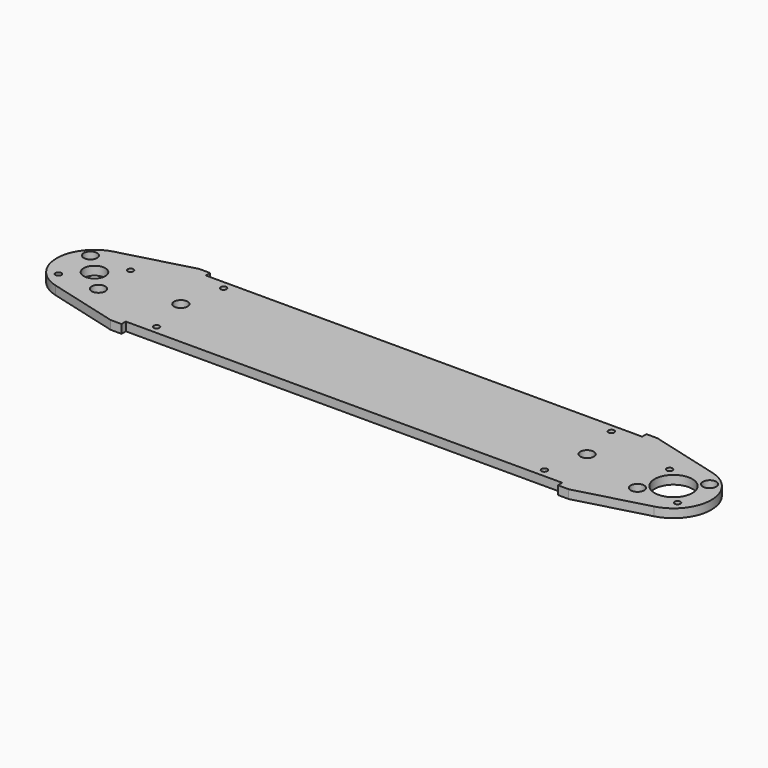
from build123d import *

# Parameters (mm, degrees)
F0_R     = 1.7272
F0_R_2   = 3.96875
F0_R_3   = 6.35
F0_R_4   = 11.1125
F1_DEPTH = 5.08


with BuildPart() as f1:
    # F0 (on Top) → F1 (new body)
    with BuildSketch(Plane.XY):
        with BuildLine():
            Line((-304.941003, 32.54375), (-346.277379, 21.467701))
            ThreePointArc((-346.277379, 21.467701), (-362.750125, 0), (-346.277379, -21.467701))
            Line((-346.277379, -21.467701), (-304.941003, -32.54375))
            Line((-304.941003, -32.54375), (-298.591003, -32.54375))
            Line((-298.591003, -32.54375), (-298.591003, -29.36875))
            Line((-298.591003, -29.36875), (-41.934123, -29.36875))
            Line((-41.934123, -29.36875), (-41.934123, -32.54375))
            Line((-41.934123, -32.54375), (-35.584123, -32.54375))
            Line((-35.584123, -32.54375), (5.752253, -21.467701))
            ThreePointArc((5.752253, -21.467701), (22.225, 0), (5.752253, 21.467701))
            Line((5.752253, 21.467701), (-35.584123, 32.54375))
            Line((-35.584123, 32.54375), (-41.934123, 32.54375))
            Line((-41.934123, 32.54375), (-41.934123, 29.36875))
            Line((-41.934123, 29.36875), (-298.591003, 29.36875))
            Line((-298.591003, 29.36875), (-298.591003, 32.54375))
            Line((-298.591003, 32.54375), (-304.941003, 32.54375))
        make_face()
        with Locations((-284.303503, -24.60625)):
            Circle(F0_R, mode=Mode.SUBTRACT)
        with Locations((-352.311712, -11.786586)):
            Circle(F0_R, mode=Mode.SUBTRACT)
        with Locations((-328.738539, -11.786586)):
            Circle(F0_R_2, mode=Mode.SUBTRACT)
        with Locations((-56.221623, -24.60625)):
            Circle(F0_R, mode=Mode.SUBTRACT)
        with Locations((-11.786586, -11.786586)):
            Circle(F0_R_2, mode=Mode.SUBTRACT)
        with Locations((11.786586, -11.786586)):
            Circle(F0_R, mode=Mode.SUBTRACT)
        with Locations((-340.525125, 0)):
            Circle(F0_R_3, mode=Mode.SUBTRACT)
        with Locations((-289.725125, 0)):
            Circle(F0_R_2, mode=Mode.SUBTRACT)
        with Locations((-352.311712, 11.786586)):
            Circle(F0_R_2, mode=Mode.SUBTRACT)
        with Locations((-328.738539, 11.786586)):
            Circle(F0_R, mode=Mode.SUBTRACT)
        with Locations((-284.303503, 24.60625)):
            Circle(F0_R, mode=Mode.SUBTRACT)
        with Locations((-50.8, 0)):
            Circle(F0_R_2, mode=Mode.SUBTRACT)
        Circle(F0_R_4, mode=Mode.SUBTRACT)
        with Locations((-11.786586, 11.786586)):
            Circle(F0_R, mode=Mode.SUBTRACT)
        with Locations((11.786586, 11.786586)):
            Circle(F0_R_2, mode=Mode.SUBTRACT)
        with Locations((-56.221623, 24.60625)):
            Circle(F0_R, mode=Mode.SUBTRACT)
    extrude(amount=F1_DEPTH)


solid = f1.part
